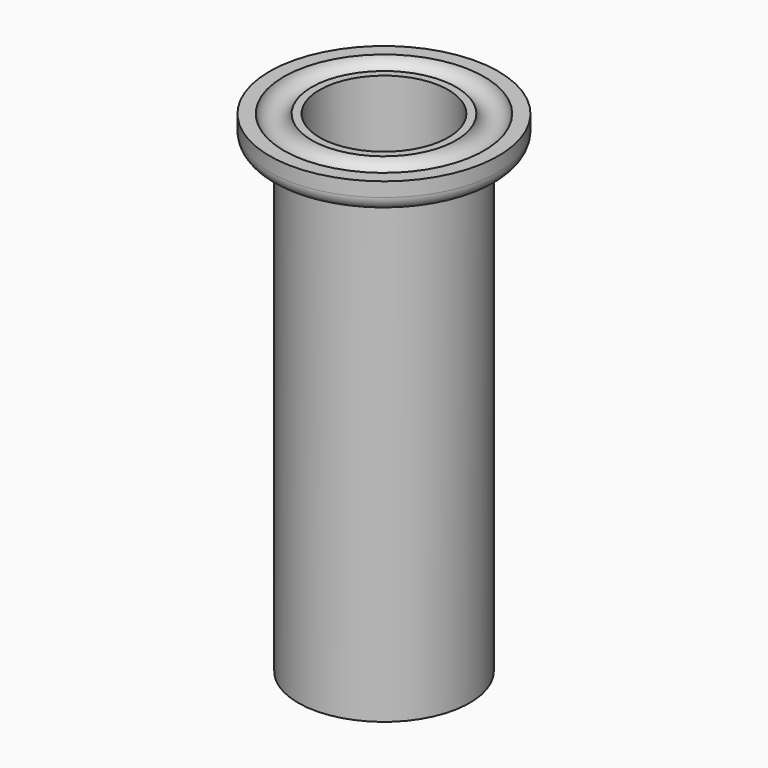
from build123d import *

# Parameters (mm, degrees)
F3_D = 28.575


with BuildPart() as f1:
    # F0 (on Front) → F1 (revolve)
    with BuildSketch(Plane.XZ):
        with BuildLine():
            Line((-85.550703, 1.903544), (-88.725703, 1.903544))
            Line((-88.725703, 1.903544), (-88.725703, -1.271456))
            ThreePointArc((-88.725703, -1.271456), (-87.795767, -3.51652), (-85.550703, -4.446456))
            Line((-85.550703, -4.446456), (-82.375703, -4.446456))
            Line((-82.375703, -4.446456), (-82.375703, -107.020175))
            Line((-82.375703, -107.020175), (-63.325703, -107.020175))
            Line((-63.325703, -107.020175), (-63.325703, 1.903544))
            Line((-63.325703, 1.903544), (-79.338027, 1.903544))
            ThreePointArc((-79.338027, 1.903544), (-82.444365, -0.614731), (-85.550703, 1.903544))
        make_face()
    revolve(axis=Axis((-63.325703, 0, -54.762168), (0, 0, -1)))

    # F3 (through all)
    with Locations(Plane.XY.offset(1.903544)):
        with Locations((-63.325703, 0)):
            Hole(F3_D / 2)


solid = f1.part
